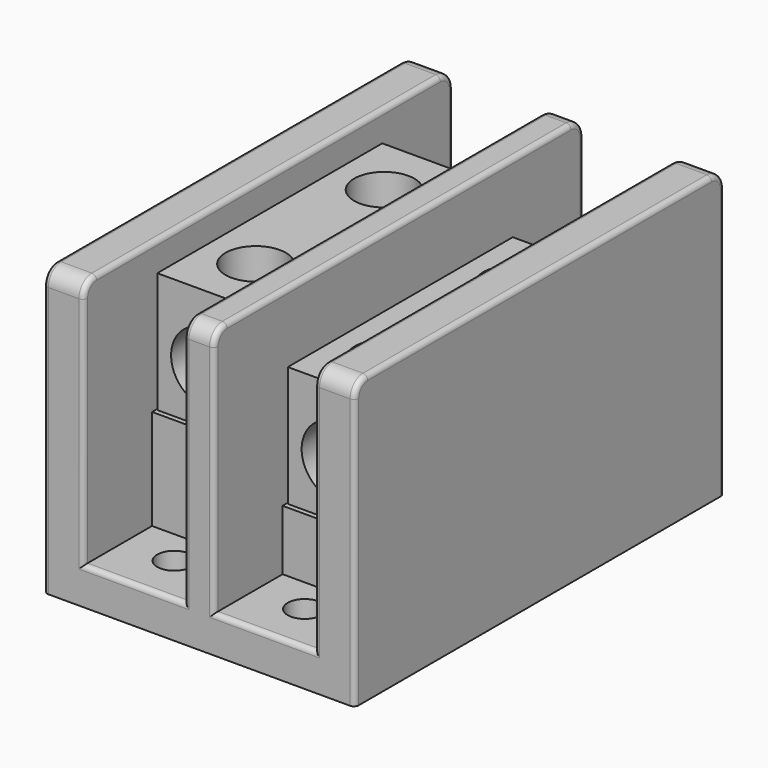
from build123d import *

# Parameters (mm, degrees)
F0_W      = 49.2125
F0_H      = 73.025
F1_DEPTH  = 45.24375
F2_W      = 15.875
F2_H      = 73.025
F3_DEPTH  = 39.40175
F4_R      = 2.667
F5_DEPTH  = 5.842
F6_R      = 2.54
F7_R      = 0.762
F8_W      = 15.875
F8_H      = 46.0375
F9_DEPTH  = 15.875
F10_W     = 15.875
F10_H     = 46.0375
F11_DEPTH = 9.525
F13_DEPTH = 19.05
F15_DEPTH = 19.05
F16_R     = 4.7625
F17_DEPTH = 14.2875
F18_R     = 4.7625
F19_DEPTH = 14.2875
F20_R     = 5.55625
F21_DEPTH = 15.875
F22_R     = 5.55625
F23_DEPTH = 15.875
F24_R     = 5.55625
F25_DEPTH = 15.875
F26_R     = 5.55625
F27_DEPTH = 15.875


with BuildPart() as f1:
    # F0 (on Top) → F1 (new body)
    with BuildSketch(Plane.XY):
        Rectangle(F0_W, F0_H)
    extrude(amount=F1_DEPTH)

    # F2 (on face) → F3 (cut)
    with BuildSketch(Plane.XY.offset(45.24375)):
        with Locations((-10.31875, 0)):
            Rectangle(F2_W, F2_H)
        with Locations((10.31875, 0)):
            Rectangle(F2_W, F2_H)
    extrude(amount=-F3_DEPTH, mode=Mode.SUBTRACT)

    # F4 (on face) → F5 (cut)
    with BuildSketch(Plane.XY.offset(5.842)):
        with Locations((-10.31875, 28.575)):
            Circle(F4_R)
        with Locations((-10.31875, -28.575)):
            Circle(F4_R)
        with Locations((10.31875, 28.575)):
            Circle(F4_R)
        with Locations((10.31875, -28.575)):
            Circle(F4_R)
    extrude(amount=-F5_DEPTH, mode=Mode.SUBTRACT)

    # F6
    f6_edges = [f1.edges().sort_by_distance(p)[0] for p in [
        (-21.43125, 36.5125, 45.24375),
        (0, 36.5125, 45.24375),
        (21.43125, 36.5125, 45.24375),
        (-21.43125, -36.5125, 45.24375),
        (0, -36.5125, 45.24375),
        (21.43125, -36.5125, 45.24375),
    ]]
    fillet(f6_edges, radius=F6_R)

    # F7
    f7_edges = [f1.edges().sort_by_distance(p)[0] for p in [
        (-10.31875, 36.5125, 5.842),
        (10.31875, 36.5125, 5.842),
        (-10.31875, -36.5125, 5.842),
        (10.31875, -36.5125, 5.842),
        (-24.60625, -36.5125, 21.351875),
        (-18.25625, -36.5125, 24.272875),
        (2.38125, -36.5125, 24.272875),
        (24.60625, -36.5125, 21.351875),
        (18.25625, -36.5125, 24.272875),
        (-2.38125, -36.5125, 24.272875),
    ]]
    fillet(f7_edges, radius=F7_R)

    # F8 (on face) → F9 (join)
    with BuildSketch(Plane.XY.offset(5.842)):
        with Locations((-10.31875, 0)):
            Rectangle(F8_W, F8_H)
    extrude(amount=F9_DEPTH)

    # F10 (on face) → F11 (join)
    with BuildSketch(Plane.XY.offset(5.842)):
        with Locations((10.31875, 0)):
            Rectangle(F10_W, F10_H)
    extrude(amount=F11_DEPTH)


with BuildPart() as f13:
    # F12 (on face) → F13 (new body)
    with BuildSketch(Plane.XY.offset(21.717)):
        Polygon((-18.0578125, 22.225), (-18.0578125, -22.225), (-2.5796875, -22.225), (-2.5796875, 22.225), align=None)
    extrude(amount=F13_DEPTH)

    # F16 (on face) → F17 (cut)
    with BuildSketch(Plane.XY.offset(40.767)):
        with Locations((-10.1203125, -12.7)):
            Circle(F16_R)
        with Locations((-10.1203125, 12.7)):
            Circle(F16_R)
    extrude(amount=-F17_DEPTH, mode=Mode.SUBTRACT)

    # F20 (on face) → F21 (cut)
    with BuildSketch(Plane.XZ.offset(22.225)):
        with Locations((-10.31875, 30.051375)):
            Circle(F20_R)
    extrude(amount=-F21_DEPTH, mode=Mode.SUBTRACT)

    # F26 (on face) → F27 (cut)
    with BuildSketch(Plane(origin=(0, 22.225, 0), x_dir=(-1, 0, 0), z_dir=(0, 1, 0))):
        with Locations((10.31875, 30.051375)):
            Circle(F26_R)
    extrude(amount=-F27_DEPTH, mode=Mode.SUBTRACT)


with BuildPart() as f15:
    # F14 (on face) → F15 (new body)
    with BuildSketch(Plane.XY.offset(15.367)):
        Polygon((2.5796875, 22.225), (2.5796875, -22.225), (18.0578125, -22.225), (18.0578125, 22.225), align=None)
    extrude(amount=F15_DEPTH)

    # F18 (on face) → F19 (cut)
    with BuildSketch(Plane.XY.offset(34.417)):
        with Locations((10.31875, 12.7)):
            Circle(F18_R)
        with Locations((10.31875, -12.7)):
            Circle(F18_R)
    extrude(amount=-F19_DEPTH, mode=Mode.SUBTRACT)

    # F22 (on face) → F23 (cut)
    with BuildSketch(Plane.XZ.offset(22.225)):
        with Locations((10.31875, 23.701375)):
            Circle(F22_R)
    extrude(amount=-F23_DEPTH, mode=Mode.SUBTRACT)

    # F24 (on face) → F25 (cut)
    with BuildSketch(Plane(origin=(0, 22.225, 0), x_dir=(-1, 0, 0), z_dir=(0, 1, 0))):
        with Locations((-10.31875, 23.701375)):
            Circle(F24_R)
    extrude(amount=-F25_DEPTH, mode=Mode.SUBTRACT)


solid = Compound([f1.part, f13.part, f15.part])
